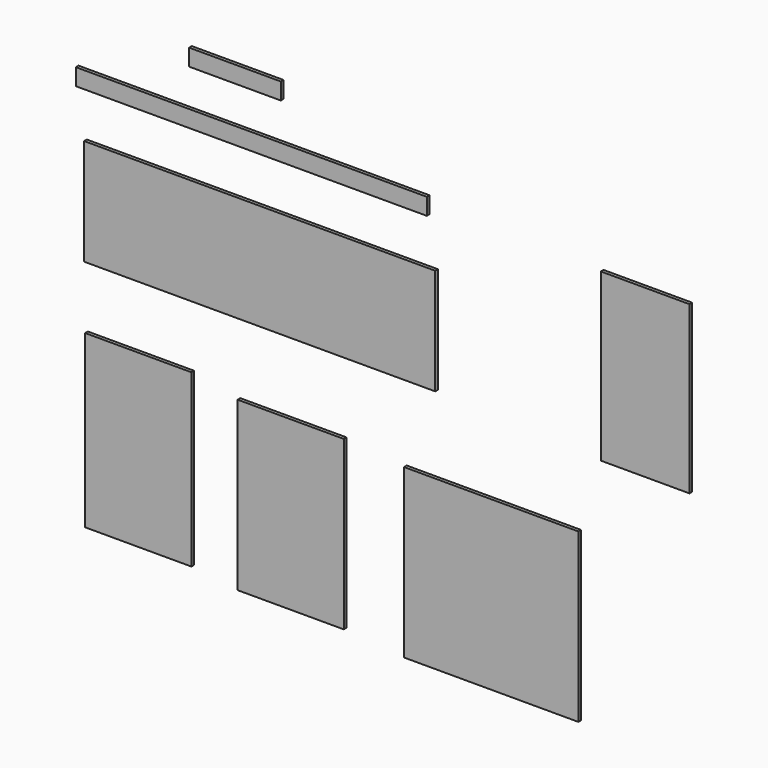
from build123d import *

# Parameters (mm, degrees)
F0_W      = 1570
F0_H      = 75
F1_DEPTH  = 15
F2_W      = 1570
F2_H      = 475
F3_DEPTH  = 15
F4_W      = 475
F4_H      = 765
F5_DEPTH  = 15
F6_W      = 410
F6_H      = 75
F7_DEPTH  = 15
F8_W      = 475
F8_H      = 750
F9_DEPTH  = 15
F10_W     = 780
F10_H     = 750
F11_DEPTH = 15
F12_W     = 397
F12_H     = 745
F13_DEPTH = 15


with BuildPart() as f1:
    # F0 (on Front) → F1 (new body)
    with BuildSketch(Plane.XZ):
        with Locations((-418.687045, 28.718525)):
            Rectangle(F0_W, F0_H)
    extrude(amount=F1_DEPTH)


with BuildPart() as f3:
    # F2 (on Front) → F3 (new body)
    with BuildSketch(Plane.XZ):
        with Locations((-381.22702, -450.18549)):
            Rectangle(F2_W, F2_H)
    extrude(amount=F3_DEPTH)


with BuildPart() as f5:
    # F4 (on Front) → F5 (new body)
    with BuildSketch(Plane.XZ):
        with Locations((-924.037862, -1349.59095)):
            Rectangle(F4_W, F4_H)
    extrude(amount=F5_DEPTH)


with BuildPart() as f7:
    # F6 (on Front) → F7 (new body)
    with BuildSketch(Plane.XZ):
        with Locations((-491.687016, 270.416832)):
            Rectangle(F6_W, F6_H)
    extrude(amount=F7_DEPTH)


with BuildPart() as f9:
    # F8 (on Front) → F9 (new body)
    with BuildSketch(Plane.XZ):
        with Locations((-242.612016, -1382.789493)):
            Rectangle(F8_W, F8_H)
    extrude(amount=F9_DEPTH)


with BuildPart() as f11:
    # F10 (on Front) → F11 (new body)
    with BuildSketch(Plane.XZ):
        with Locations((654.006406, -1405.945539)):
            Rectangle(F10_W, F10_H)
    extrude(amount=F11_DEPTH)


with BuildPart() as f13:
    # F12 (on Front) → F13 (new body)
    with BuildSketch(Plane.XZ):
        with Locations((1342.781249, -347.023013)):
            Rectangle(F12_W, F12_H)
    extrude(amount=F13_DEPTH)


solid = Compound([f1.part, f3.part, f5.part, f7.part, f9.part, f11.part, f13.part])
